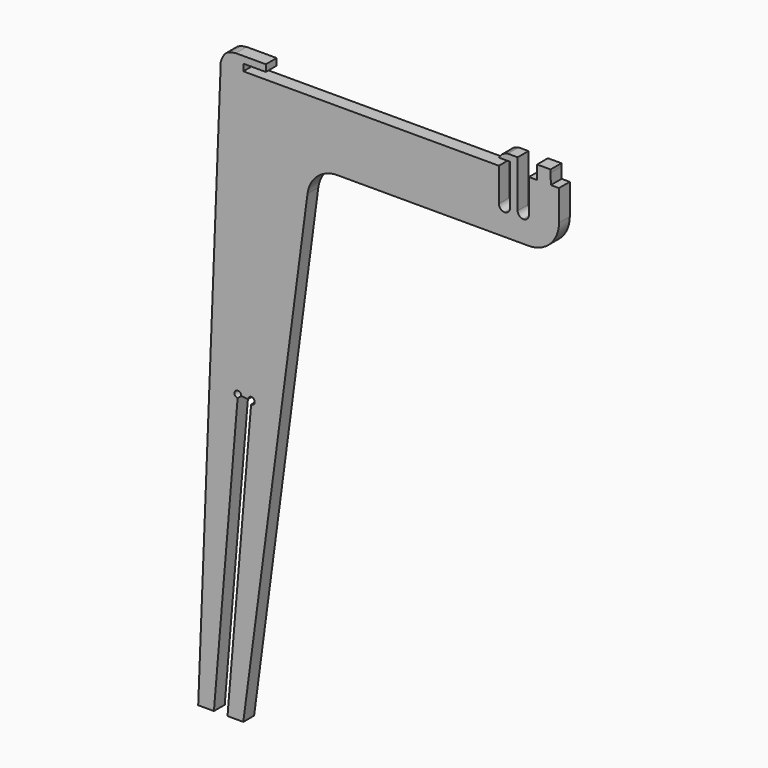
from build123d import *

# Parameters (mm, degrees)
F1_DEPTH = 18


with BuildPart() as f1:
    # F0 (on Front) → F1 (new body)
    with BuildSketch(Plane.XZ):
        with BuildLine():
            Line((-494.9431181919, -380.3196549416), (-495.3364644899, -390.3106509103))
            Line((-495.3364644899, -390.3106509103), (-474.3992558025, -390.3106509103))
            Line((-474.3992558025, -390.3106509103), (-442.9078605118, -13.6198989728))
            ThreePointArc((-442.9078605118, -13.6198989728), (-445.4387975319, -5.6995339283), (-438.0486109698, -9.5104350311))
            Line((-438.0486109698, -9.5104350311), (-429.079897486, -10.2602206314))
            ThreePointArc((-429.079897486, -10.2602206314), (-421.1595324415, -7.7292836113), (-424.9704335443, -15.1194701734))
            Line((-424.9704335443, -15.1194701734), (-456.3364644899, -390.3106509103))
            Line((-456.3364644899, -390.3106509103), (-435.3364644899, -390.3106509103))
            Line((-435.3364644899, -390.3106509103), (-349.9298685588, 255.9864675478))
            ThreePointArc((-349.9298685588, 255.9864675478), (-336.6411341811, 280.8261308929), (-310.274619413, 290.7461225986))
            Line((-310.274619413, 290.7461225986), (-55.3364644899, 290.7461225986))
            ThreePointArc((-55.3364644899, 290.7461225986), (-27.0287216569, 302.4853424307), (-15.3365196272, 330.8125378136))
            Line((-15.3365196272, 330.8125378136), (-15.4040666505, 371.4941377938))
            Line((-15.4040666505, 371.4941377938), (-26.1865943467, 371.4941377938))
            Line((-26.1865943467, 371.4941377938), (-26.4555723936, 385.8212303749))
            Line((-26.4555723936, 385.8212303749), (-26.474497292, 389.6893490897))
            Line((-26.474497292, 389.6893490897), (-44.4864644899, 389.6893490897))
            Line((-44.4864644899, 389.6893490897), (-44.4864644899, 371.4941377938))
            Line((-44.4864644899, 371.4941377938), (-55.3364644899, 371.4941377938))
            Line((-55.3364644899, 371.4941377938), (-55.3364644899, 327.1893490897))
            ThreePointArc((-55.3364644899, 327.1893490897), (-57.533163631, 321.8860482309), (-62.8364644899, 319.6893490897))
            ThreePointArc((-62.8364644899, 319.6893490897), (-68.1397653488, 321.8860482309), (-70.3364644899, 327.1893490897))
            Line((-70.3364644899, 327.1893490897), (-70.3364644899, 389.6893490897))
            Line((-70.3364644899, 389.6893490897), (-83.3364644899, 389.6893490897))
            add(Edge.make_bspline(
                [(-83.3364644899, 389.6893490897), (-86.0423866242, 388.9113420461), (-91.2893973468, 387.4027209189), (-94.0159938946, 383.2265543698), (-95.3364644899, 381.2040677155)],
                knots=[0, 0, 0, 0, 0.5157073765, 1, 1, 1, 1], degree=3))
            Line((-95.3364644899, 381.2040677155), (-80.3364644899, 381.2289734555))
            Line((-80.3364644899, 381.2289734555), (-80.3364644899, 327.1893490897))
            ThreePointArc((-80.3364644899, 327.1893490897), (-82.533163631, 321.8860482309), (-87.8364644899, 319.6893490897))
            ThreePointArc((-87.8364644899, 319.6893490897), (-93.1397653488, 321.8860482309), (-95.3364644899, 327.1893490897))
            Line((-95.3364644899, 327.1893490897), (-95.3364644899, 370.6893490897))
            Line((-95.3364644899, 370.6893490897), (-95.3364644899, 371.6893490897))
            Line((-95.3364644899, 371.6893490897), (-435.3364644899, 371.6893490897))
            Line((-435.3364644899, 371.6893490897), (-435.3364644899, 375.1893490897))
            Line((-435.3364644899, 375.1893490897), (-435.3364644899, 376.1893490897))
            Line((-435.3364644899, 376.1893490897), (-435.3364644899, 380.6893490897))
            Line((-435.3364644899, 380.6893490897), (-405.3364644899, 380.6893490897))
            Line((-405.3364644899, 380.6893490897), (-405.3364644899, 389.6893490897))
            Line((-405.3364644899, 389.6893490897), (-445.3364644899, 389.6893490897))
            add(Edge.make_bspline(
                [(-445.3364644899, 389.6893490897), (-450.2049500524, 389.0615823794), (-459.5920285383, 387.2680457186), (-463.5495128465, 378.4364704972), (-465.3198116993, 372.6887939967)],
                knots=[0, 0, 0, 0, 0.4865626406, 1, 1, 1, 1], degree=3))
            Line((-465.3198116993, 372.6887939967), (-465.3905866055, 370.3146473532))
            Line((-465.3905866055, 370.3146473532), (-494.9431181919, -380.3196549416))
        make_face()
    extrude(amount=F1_DEPTH)


solid = f1.part
